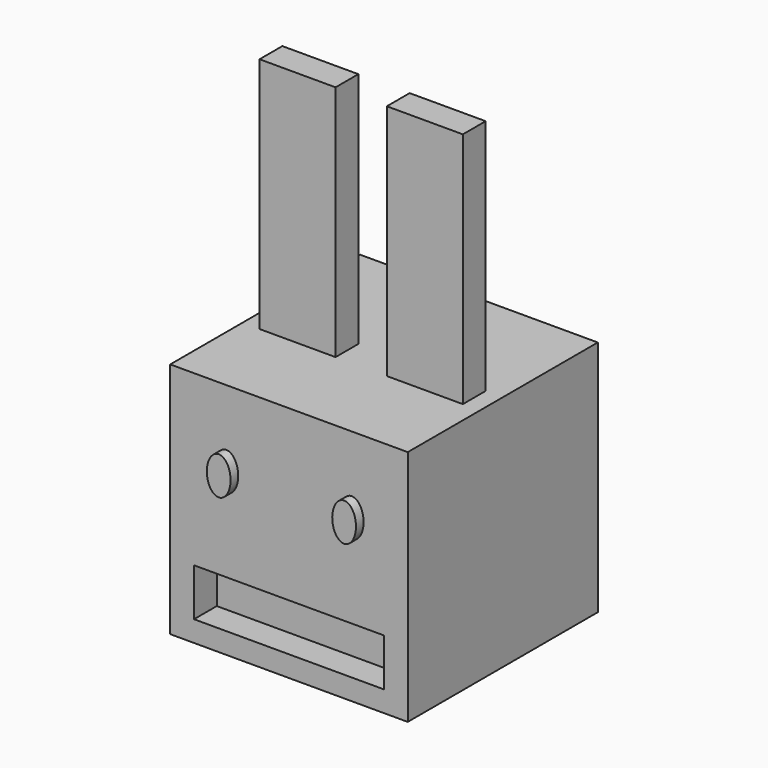
from build123d import *

# Parameters (mm, degrees)
F0_W     = 25
F0_H     = 25
F1_DEPTH = 25
F2_W     = 8
F2_H     = 3
F3_DEPTH = 25
F4_W     = 20
F4_H     = 5
F5_DEPTH = 3
F7_DEPTH = 1


with BuildPart() as f1:
    # F0 (on Top) → F1 (new body)
    with BuildSketch(Plane.XY):
        Rectangle(F0_W, F0_H)
    extrude(amount=F1_DEPTH)

    # F2 (on face) → F3 (join)
    with BuildSketch(Plane.XY.offset(25)):
        with Locations((6.7, -1.5)):
            Rectangle(F2_W, F2_H)
        with Locations((-6.7, -1.5)):
            Rectangle(F2_W, F2_H)
    extrude(amount=F3_DEPTH)

    # F4 (on face) → F5 (cut)
    with BuildSketch(Plane.XZ.offset(12.5)):
        with Locations((0, 4.7)):
            Rectangle(F4_W, F4_H)
    extrude(amount=-F5_DEPTH, mode=Mode.SUBTRACT)

    # F6 (on face) → F7 (join)
    with BuildSketch(Plane.XZ.offset(12.5)):
        with BuildLine():
            add(Edge.make_bspline(
                [(-6.6, 15.000625), (-4.434936, 15.000625), (-5.517468, 18.000625), (-6.6, 21.000625), (-7.682532, 18.000625), (-8.765064, 15.000625), (-6.6, 15.000625)],
                knots=[0, 0, 0, 2.094395, 2.094395, 4.18879, 4.18879, 6.283185, 6.283185, 6.283185], degree=2, weights=[1, 0.5, 1, 0.5, 1, 0.5, 1]))
        make_face()
        with BuildLine():
            add(Edge.make_bspline(
                [(6.6, 15.000625), (8.765064, 15.000625), (7.682532, 18.000625), (6.6, 21.000625), (5.517468, 18.000625), (4.434936, 15.000625), (6.6, 15.000625)],
                knots=[0, 0, 0, 2.094395, 2.094395, 4.18879, 4.18879, 6.283185, 6.283185, 6.283185], degree=2, weights=[1, 0.5, 1, 0.5, 1, 0.5, 1]))
        make_face()
    extrude(amount=F7_DEPTH)


solid = f1.part
